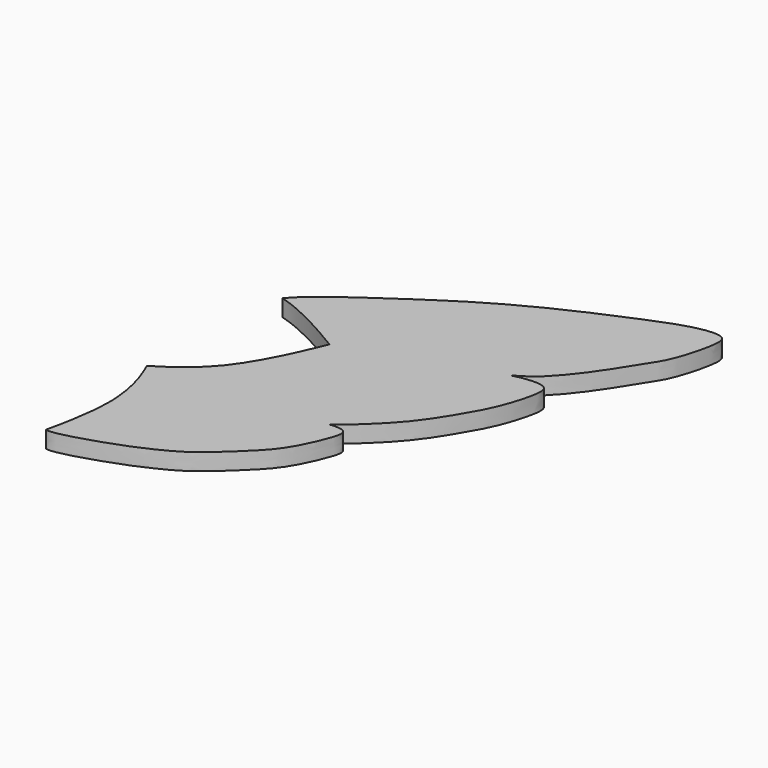
from build123d import *

# Parameters (mm, degrees)
F1_DEPTH = 3.556


with BuildPart() as f1:
    # F0 (on Top) → F1 (new body)
    with BuildSketch(Plane.XY):
        with BuildLine():
            add(Edge.make_bspline(
                [(31.1428990211, 23.5476545306), (32.0606564624, 24.5589223003), (34.7395784843, 27.5111017688), (50.1477554815, 38.0873381659), (59.5596766269, 44.0647308984), (70.7480368658, 49.8661585643), (82.7029607735, 54.9560273439), (90.8928562423, 58.2276987312), (97.2439359103, 58.6840126614), (97.5032459899, 54.7407555868), (95.1986890858, 46.5578055264), (92.9424461521, 43.3054740035), (87.8327766471, 34.7812612758), (81.8146257634, 27.6341287753), (78.8810060039, 26.0802761538), (77.696214915, 25.4528395342)],
                knots=[0.0001828511, 0.0001828511, 0.0001828511, 0.0001828511, 0.0601535534, 0.1748139548, 0.267374219, 0.361177508, 0.458248882, 0.5394163321, 0.5992525561, 0.6454134255, 0.7227218732, 0.7777673697, 0.8614645852, 0.9440536686, 1, 1, 1, 1], degree=3))
            add(Edge.make_bspline(
                [(47.5741622382, 15.4578106279), (45.6636227597, 16.5895352882), (46.1356294025, 16.2768437451), (36.8759013646, 21.8727552445), (31.1428990211, 23.5476545306)],
                knots=[0, 0, 0, 0, 0.164941507, 0.5426485723, 0.5426485723, 0.5426485723, 0.5426485723], degree=3))
            add(Edge.make_bspline(
                [(47.5741622382, 15.4578106279), (46.6937143966, 13.4192392155), (46.8921893377, 13.9507458765), (40.1262993601, -2.102296692), (30.6475856968, -8.2243249971), (29.1952798632, -9.1545745609), (28.7915675425, -9.354919095)],
                knots=[0, 0, 0, 0, 0.164941507, 0.5437691883, 0.8718481392, 1, 1, 1, 1], degree=3))
            add(Edge.make_bspline(
                [(31.9554952688, -21.1240404537), (31.6133532987, -16.4928622432), (29.5941589185, -11.2725343253), (29.0004181083, -9.7542973761), (28.7915675425, -9.354919095)],
                knots=[0.5687630283, 0.5687630283, 0.5687630283, 0.5687630283, 0.8718481392, 1, 1, 1, 1], degree=3))
            add(Edge.make_bspline(
                [(31.9554952688, -21.1240404537), (32.292882155, -20.5676410982), (46.5713037101, -13.2368126953), (54.237624595, -10.5827781261), (61.4123082362, -7.609060059), (64.9741183878, -6.9878597358), (65.5738716419, -6.9198099986)],
                knots=[0.0056088741, 0.0056088741, 0.0056088741, 0.0056088741, 0.1226435006, 0.2286888241, 0.3268996202, 0.3484364686, 0.3484364686, 0.3484364686, 0.3484364686], degree=3))
            add(Edge.make_bspline(
                [(77.696214915, 25.4528395342), (80.1018411827, 26.158450049), (85.1929597526, 26.7279845974), (85.6882211473, 22.9169082436), (83.2955850192, 15.344424764), (80.935425426, 11.1158936652), (76.0078684575, 2.6362780549), (69.174792103, -3.9539078637), (67.3048091301, -5.5185332868), (65.5738716419, -6.9198099986)],
                knots=[0.4021492432, 0.4021492432, 0.4021492432, 0.4021492432, 0.4906271861, 0.5464489713, 0.6405905904, 0.7173946747, 0.823146134, 0.9250408291, 1, 1, 1, 1], degree=3))
        make_face()
        with BuildLine():
            add(Edge.make_bspline(
                [(65.5738716419, -6.9198099986), (66.9786140319, -6.7604238679), (69.3814495654, -6.9236572766), (68.8596301842, -10.3391025585), (65.709885908, -17.3304157818), (62.119938261, -21.6396237627), (54.1102928785, -29.1200324649), (49.2710267402, -31.5166276262), (44.1779293136, -34.093370272), (31.3705762113, -38.2858983156), (30.0387481673, -37.6050691051)],
                knots=[0.3484364686, 0.3484364686, 0.3484364686, 0.3484364686, 0.3988800865, 0.4510966581, 0.539582038, 0.6193531869, 0.7244379919, 0.7972498816, 0.8810223758, 0.9995562286, 0.9995562286, 0.9995562286, 0.9995562286], degree=3))
            add(Edge.make_bspline(
                [(31.9554952688, -21.1240404537), (32.292882155, -20.5676410982), (46.5713037101, -13.2368126953), (54.237624595, -10.5827781261), (61.4123082362, -7.609060059), (64.9741183878, -6.9878597358), (65.5738716419, -6.9198099986)],
                knots=[0.0056088741, 0.0056088741, 0.0056088741, 0.0056088741, 0.1226435006, 0.2286888241, 0.3268996202, 0.3484364686, 0.3484364686, 0.3484364686, 0.3484364686], degree=3))
            add(Edge.make_bspline(
                [(30.0387481633, -37.6050691099), (30.4890096555, -35.6270955851), (32.3209688057, -27.7771531043), (31.9837099231, -21.5059494381), (31.9554952688, -21.1240404537)],
                knots=[0.1652605541, 0.1652605541, 0.1652605541, 0.1652605541, 0.5437691883, 0.5687630283, 0.5687630283, 0.5687630283, 0.5687630283], degree=3))
        make_face()
    extrude(amount=F1_DEPTH)


solid = f1.part
